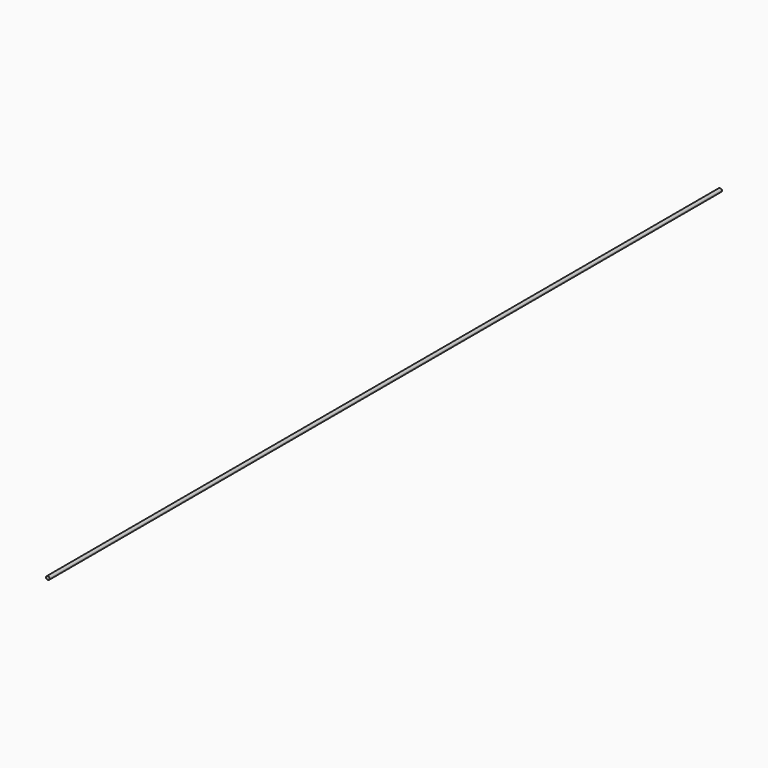
from build123d import *

# Parameters (mm, degrees)
F0_R     = 25
F0_R_2   = 24
F1_DEPTH = 12000
F3_D     = 15
F3_DEPTH = 25
F4_D     = 15
F4_DEPTH = 25


with BuildPart() as f1:
    # F0 (on Front) → F1 (new body)
    with BuildSketch(Plane.XZ):
        Circle(F0_R)
        Circle(F0_R_2, mode=Mode.SUBTRACT)
    extrude(amount=F1_DEPTH)

    # F3
    with Locations(Plane.XY):
        with Locations((0, 0)):
            Hole(F3_D / 2, depth=F3_DEPTH)

    # F4
    with Locations(Plane(origin=(0, 0, 0), x_dir=(1, 0, 0), z_dir=(0, 0, -1))):
        with Locations((0, 0)):
            Hole(F4_D / 2, depth=F4_DEPTH)


solid = f1.part
